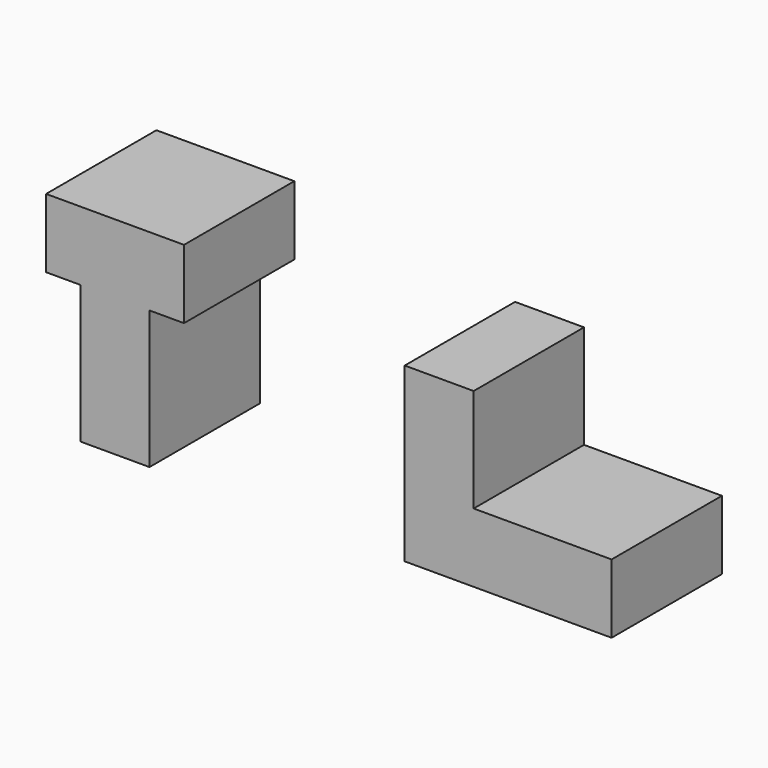
from build123d import *

# Parameters (mm, degrees)
F1_DEPTH = 25.4
F3_DEPTH = 25.4


with BuildPart() as f1:
    # F0 (on Front) → F1 (new body)
    with BuildSketch(Plane.XZ):
        Polygon((35.906236, 31.75), (35.906236, 0), (74.006236, 0), (74.006236, 12.7), (48.606236, 12.7), (48.606236, 31.75), align=None)
    extrude(amount=F1_DEPTH)


with BuildPart() as f3:
    # F2 (on Front) → F3 (new body)
    with BuildSketch(Plane.XZ):
        Polygon((-23.79391, 25.4), (-23.79391, 0), (-11.09391, 0), (-11.09391, 25.4), (-4.74391, 25.4), (-4.74391, 38.1), (-30.14391, 38.1), (-30.14391, 25.4), align=None)
    extrude(amount=F3_DEPTH)


solid = Compound([f1.part, f3.part])
